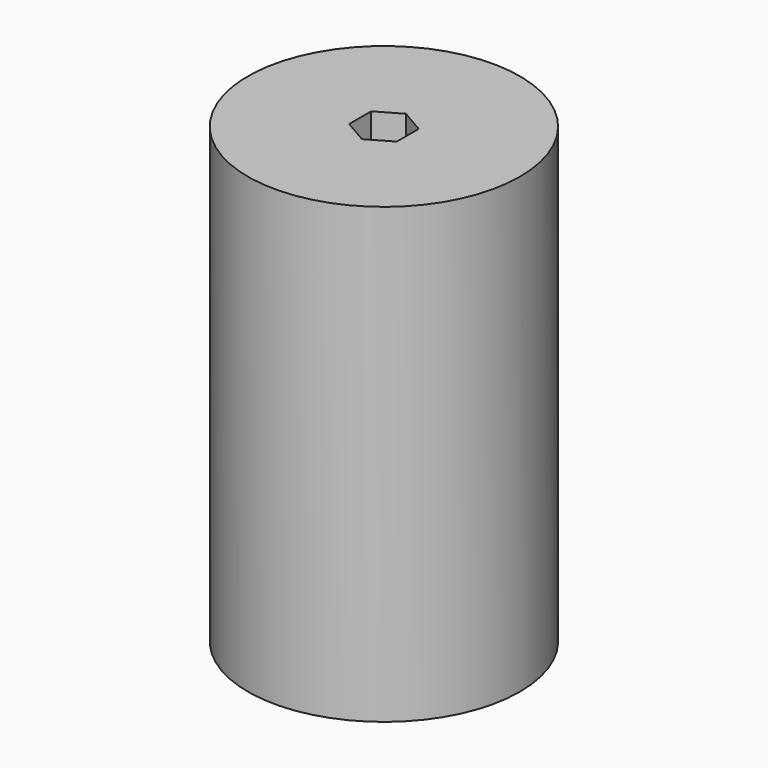
from build123d import *

# Parameters (mm, degrees)
F0_R     = 15
F1_DEPTH = 50
F2_DEPTH = 25


with BuildPart() as f1:
    # F0 (on Top) → F1 (new body)
    with BuildSketch(Plane.XY):
        Circle(F0_R)
        Polygon((0, 3.031089), (2.625, 1.515544), (2.625, -1.515544), (0, -3.031089), (-2.625, -1.515544), (-2.625, 1.515544), align=None, mode=Mode.SUBTRACT)
    extrude(amount=F1_DEPTH)

    # F0 (on Top) → F2 (join)
    with BuildSketch(Plane.XY):
        Polygon((2.625, -1.515544), (2.625, 1.515544), (0, 3.031089), (-2.625, 1.515544), (-2.625, -1.515544), (0, -3.031089), align=None)
    extrude(amount=F2_DEPTH)


solid = f1.part
